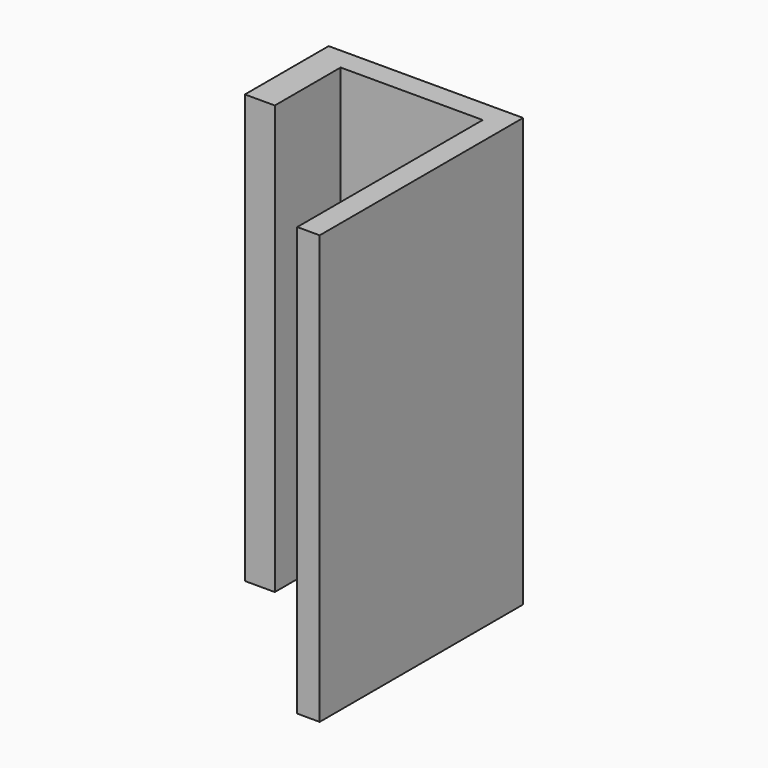
from build123d import *

# Parameters (mm, degrees)
SKETCH068_W      = 3.5
SKETCH068_H      = 3
EXTRUDE058_DEPTH = 1
EXTRUDE057_DEPTH = 28.64


with BuildPart() as extrude058:
    # Sketch068 → Extrude058 (new body, symmetric)
    with BuildSketch(Plane.YZ.offset(311)):
        with Locations((259.75, -21.82)):
            Rectangle(SKETCH068_W, SKETCH068_H)
    extrude(amount=EXTRUDE058_DEPTH, both=True)


with BuildPart() as cut005:
    # Sketch067 → Extrude057 (new body)
    with BuildSketch(Plane(origin=(0, 0, 6.32), x_dir=(1, 0, 0), z_dir=(0, 0, -1))):
        Polygon((321.5, -246), (323, -246), (323, -263), (310, -263), (310, -256), (312, -256), (312, -261.5), (321.5, -261.5), align=None)
    extrude(amount=EXTRUDE057_DEPTH)

    # Cut005: cut Extrude058
    add(extrude058.part, mode=Mode.SUBTRACT)


solid = cut005.part
